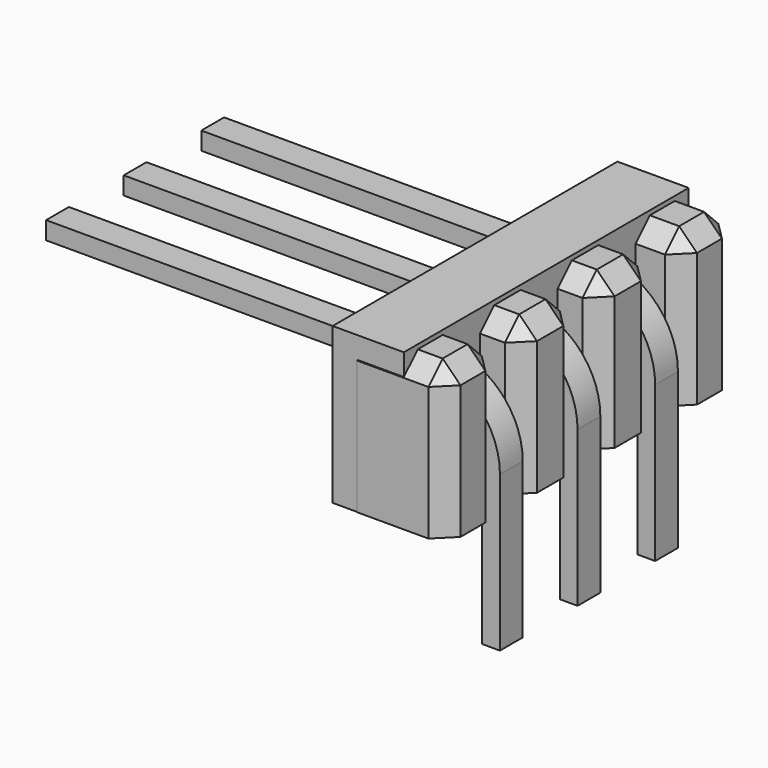
from build123d import *

# Parameters (mm, degrees)
BOX008_W                  = 1.6
BOX008_H                  = 8
BOX008_DEPTH              = 3.5
BOX004_W                  = 1.54
BOX004_H                  = 2
BOX004_DEPTH              = 3.4
CHAMFER002_SIZE           = 0.4
BOX007_W                  = 1.5
BOX007_H                  = 2
BOX007_DEPTH              = 3.4
CHAMFER005_SIZE           = 0.4
BOX005_W                  = 1.54
BOX005_H                  = 2
BOX005_DEPTH              = 3.4
CHAMFER003_SIZE           = 0.4
BOX006_W                  = 1.5
BOX006_H                  = 2
BOX006_DEPTH              = 3.4
CHAMFER004_SIZE           = 0.4
SKETCH002_W               = 0.64
SKETCH002_H               = 0.4
ARRAY001_X_COUNT          = 3
ARRAY001_X_PITCH          = 2.18
FUSION001_PLACEMENT_ANGLE = -90


with BuildPart() as cubo008:
    # Box008 → Box008 (new body)
    with BuildSketch(Plane(origin=(-9.36, -4.13, 1.7), x_dir=(1, 0, 0), z_dir=(0, 0, 1))):
        with Locations((0.8, 4)):
            Rectangle(BOX008_W, BOX008_H)
    extrude(amount=BOX008_DEPTH)


with BuildPart() as chamfer002:
    # Box004 → Box004 (new body)
    with BuildSketch(Plane(origin=(-2.93, -3.3, 0.2), x_dir=(1, 0, 0), z_dir=(0, 0, 1))):
        with Locations((0.77, 1)):
            Rectangle(BOX004_W, BOX004_H)
    extrude(amount=BOX004_DEPTH)

    # Chamfer002
    chamfer002_edges = [chamfer002.edges().sort_by_distance(p)[0] for p in [
        (-2.93, -2.3, 3.6),
        (-2.93, -1.3, 1.9),
        (-1.39, -2.3, 3.6),
        (-1.39, -1.3, 1.9),
        (-2.16, -1.3, 3.6),
    ]]
    chamfer(chamfer002_edges, length=CHAMFER002_SIZE)


with BuildPart() as chamfer002_1:
    # Chamfer002 placement: moved
    add(chamfer002.part.moved(Location((3.2, 1.5, 1.5))))


with BuildPart() as chamfer005:
    # Box007 → Box007 (new body)
    with BuildSketch(Plane(origin=(-1.14, -16.5, 1.4), x_dir=(1, 0, 0), z_dir=(0, 0, 1))):
        with Locations((0.75, 1)):
            Rectangle(BOX007_W, BOX007_H)
    extrude(amount=BOX007_DEPTH)

    # Chamfer005
    chamfer005_edges = [chamfer005.edges().sort_by_distance(p)[0] for p in [
        (-1.14, -15.5, 4.8),
        (-1.14, -14.5, 3.1),
        (0.36, -15.5, 4.8),
        (0.36, -14.5, 3.1),
        (-0.39, -14.5, 4.8),
    ]]
    chamfer(chamfer005_edges, length=CHAMFER005_SIZE)


with BuildPart() as chamfer005_1:
    # Chamfer005 placement: moved
    add(chamfer005.part.moved(Location((5.78, 14.7, 0.3))))


with BuildPart() as chamfer003:
    # Box005 → Box005 (new body)
    with BuildSketch(Plane(origin=(-2.93, -3.3, 0.2), x_dir=(1, 0, 0), z_dir=(0, 0, 1))):
        with Locations((0.77, 1)):
            Rectangle(BOX005_W, BOX005_H)
    extrude(amount=BOX005_DEPTH)

    # Chamfer003
    chamfer003_edges = [chamfer003.edges().sort_by_distance(p)[0] for p in [
        (-2.93, -2.3, 3.6),
        (-2.93, -1.3, 1.9),
        (-1.39, -2.3, 3.6),
        (-1.39, -1.3, 1.9),
        (-2.16, -1.3, 3.6),
    ]]
    chamfer(chamfer003_edges, length=CHAMFER003_SIZE)


with BuildPart() as chamfer003_1:
    # Chamfer003 placement: moved
    add(chamfer003.part.moved(Location((5.38, 1.5, 1.5))))


with BuildPart() as chamfer004:
    # Box006 → Box006 (new body)
    with BuildSketch(Plane(origin=(-1.14, -16.5, 1.4), x_dir=(1, 0, 0), z_dir=(0, 0, 1))):
        with Locations((0.75, 1)):
            Rectangle(BOX006_W, BOX006_H)
    extrude(amount=BOX006_DEPTH)

    # Chamfer004
    chamfer004_edges = [chamfer004.edges().sort_by_distance(p)[0] for p in [
        (-1.14, -15.5, 4.8),
        (-1.14, -14.5, 3.1),
        (0.36, -15.5, 4.8),
        (0.36, -14.5, 3.1),
        (-0.39, -14.5, 4.8),
    ]]
    chamfer(chamfer004_edges, length=CHAMFER004_SIZE)


with BuildPart() as chamfer004_1:
    # Chamfer004 placement: moved
    add(chamfer004.part.moved(Location((-0.74, 14.8, 0.3))))


with BuildPart() as obj1:
    # Sweep: sweep along a path in Sketch003
    with BuildLine(Plane.YZ) as sweep_path:
        Line((0, 0), (0, 3.48702))
        ThreePointArc((0, 3.48702), (-0.443142, 4.556858), (-1.51298, 5))
        Line((-1.51298, 5), (-10, 5))
    # Sketch002 → Sweep (sweep)
    with BuildSketch(Plane.XY):
        Rectangle(SKETCH002_W, SKETCH002_H)
    sweep(path=sweep_path.line)


with BuildPart() as obj1_1:
    # Sweep placement: moved
    add(obj1.part.moved(Location((-0.05, 0, -1))))

    # Array001 X: obj1_3


with BuildPart() as obj1_2:
    add(obj1_1.part)
    with Locations(*[(i * ARRAY001_X_PITCH, 0, 0) for i in range(1, ARRAY001_X_COUNT)]):
        add(obj1_1.part)

    # Fusion001: union Chamfer002, Chamfer005, Chamfer003, Chamfer004
    add(chamfer002_1.part)
    add(chamfer005_1.part)
    add(chamfer003_1.part)
    add(chamfer004_1.part)


with BuildPart() as obj1_3:
    # Fusion001 placement: moved
    add(obj1_2.part.moved(Location((-7, 2, 0))).rotate(Axis((-7, 2, 0), (0, 0, 1)), FUSION001_PLACEMENT_ANGLE))

    # Fusion002: union Cubo008
    add(cubo008.part)


with BuildPart() as obj1_4:
    # Fusion002 placement: moved
    add(obj1_3.part.moved(Location((0, 1.9, 0))))


solid = obj1_4.part
